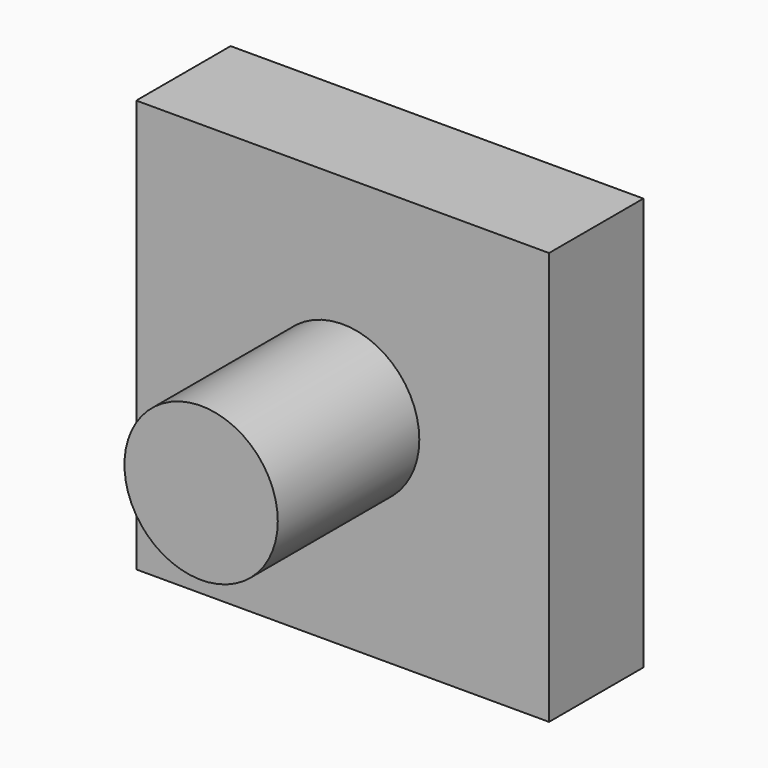
from build123d import *

# Parameters (mm, degrees)
F1_W     = 35
F1_H     = 20
F2_DEPTH = 30
F3_DEPTH = 5
F0_R     = 6.5
F6_DEPTH = 15
F7_DEPTH = 25
F8_DEPTH = 15
F9_DEPTH = 15


with BuildPart() as f2:
    # F1 (on Top) → F2 (new body)
    with BuildSketch(Plane.XY):
        with Locations((-17.5, 10)):
            Rectangle(F1_W, F1_H)
    extrude(amount=F2_DEPTH)

    # F3 (add): a face of the model
    f3_faces = [f2.faces().sort_by_distance(p)[0] for p in [
        (-17.5, 10, 30),
    ]]
    extrude(f3_faces, amount=F3_DEPTH)

    # F0 (on Front) → F6 (join)
    with BuildSketch(Plane.XZ):
        with Locations((-17.5, 17.5)):
            Circle(F0_R)
    extrude(amount=F6_DEPTH)

    # F7 (add): a face of the model
    f7_faces = [f2.faces().sort_by_distance(p)[0] for p in [
        (-34.5050252532, 0, 17.5),
    ]]
    extrude(f7_faces, amount=-F7_DEPTH)

    # F8 (add): a face of the model
    f8_faces = [f2.faces().sort_by_distance(p)[0] for p in [
        (-34.5050252532, 25, 17.5),
    ]]
    extrude(f8_faces, amount=-F8_DEPTH)

    # F9 (cut): a face of the model
    f9_faces = [f2.faces().sort_by_distance(p)[0] for p in [
        (-34.5050252532, 25, 17.5),
    ]]
    extrude(f9_faces, amount=-F9_DEPTH, mode=Mode.SUBTRACT)


solid = f2.part
